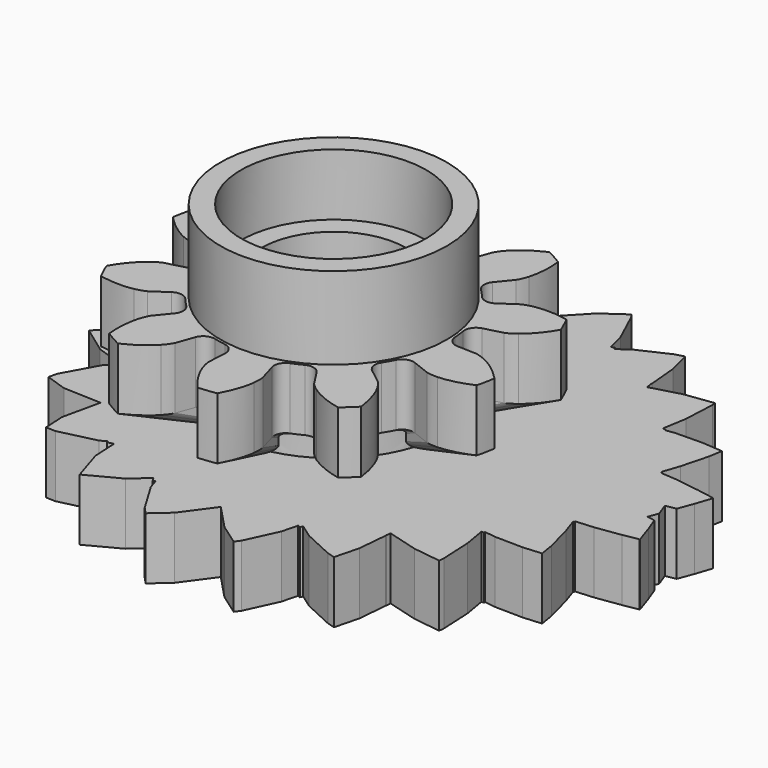
from build123d import *

# Parameters (mm, degrees)
CYLINDER004_R     = 4.5
CYLINDER004_DEPTH = 3
CYLINDER002_R     = 3.5
CYLINDER002_DEPTH = 20
CYLINDER005_R     = 4.5
CYLINDER005_DEPTH = 3
PAD006_DEPTH      = 3
CYLINDER003_R     = 5.5
CYLINDER003_DEPTH = 11


with BuildPart() as bearingcutouttop:
    # Cylinder004 → Cylinder004 (new body)
    with BuildSketch(Plane(origin=(-24, 0, 8), x_dir=(1, 0, 0), z_dir=(0, 0, 1))):
        Circle(CYLINDER004_R)
    extrude(amount=CYLINDER004_DEPTH)


with BuildPart() as axlecutout:
    # Cylinder002 → Cylinder002 (new body)
    with BuildSketch(Plane(origin=(-24, 0, 0), x_dir=(1, 0, 0), z_dir=(0, 0, 1))):
        Circle(CYLINDER002_R)
    extrude(amount=CYLINDER002_DEPTH)


with BuildPart() as cutouts:
    # Cylinder005 → Cylinder005 (new body)
    with BuildSketch(Plane(origin=(-24, 0, 0), x_dir=(1, 0, 0), z_dir=(0, 0, 1))):
        Circle(CYLINDER005_R)
    extrude(amount=CYLINDER005_DEPTH)

    # Fusion004: union bearingCutoutTop, axleCutout
    add(bearingcutouttop.part)
    add(axlecutout.part)


with BuildPart() as obj1:
    # DWire003 → Pad006 (new body)
    with BuildSketch(Plane(origin=(-24, 0, 0), x_dir=(1, 0, 0), z_dir=(0, 0, 1))):
        Polygon((16.709229, 2.145517), (16.719025, 2.128678), (16.709229, 2.145517), (16.719025, 2.128678), (16.454472, 1.339116), (16.178713, 0.599104), (15.672795, 0.509454), (15.90905, -0.124547), (15.72899, -0.607747), (16.114571, -0.676073), (16.372412, -1.368), (16.660814, -2.228735), (16.651934, -2.243999), (15.902679, -2.376769), (14.684639, -2.550888), (13.810397, -2.618315), (13.825047, -2.673766), (13.772887, -2.681223), (14.028811, -3.445025), (14.367357, -4.726446), (14.489469, -5.456559), (13.590703, -5.525878), (12.238962, -5.504786), (11.69954, -5.432727), (11.702633, -5.496417), (11.573708, -5.494405), (11.755242, -6.579813), (11.828978, -8.098227), (11.805547, -8.354548), (10.471663, -8.176364), (8.966212, -7.755699), (8.946384, -7.972611), (8.937364, -7.971406), (8.940532, -8.036641), (8.810529, -9.458816), (8.511551, -10.621115), (8.13881, -10.51696), (6.682311, -9.843522), (6.026342, -9.381631), (5.966049, -9.512346), (5.836308, -9.452358), (5.637853, -10.223869), (4.930072, -11.758328), (4.748432, -12.00666), (3.724972, -11.286005), (2.585394, -10.082104), (1.51204, -11.549547), (0.690381, -12.272584), (0.37927, -11.943913), (-0.511368, -10.459177), (-0.661072, -9.983461), (-0.764076, -10.037901), (-0.89147, -9.825529), (-1.687311, -10.525846), (-3.251611, -11.352606), (-3.748981, -9.772107), (-3.811595, -8.569617), (-4.105419, -8.639451), (-4.131165, -8.55764), (-4.43349, -8.717424), (-6.200371, -9.137363), (-6.66889, -9.120193), (-6.723256, -8.076111), (-6.318616, -6.249036), (-8.154589, -6.181752), (-9.179508, -5.838136), (-9.087919, -5.424585), (-8.182627, -3.786216), (-7.998521, -3.610371), (-8.060606, -3.565386), (-7.87793, -3.234786), (-9.067122, -2.836096), (-10.371242, -1.891172), (-8.937012, -0.5213), (-8.244697, -0.01967), (-8.328256, 0.06014), (-8.252357, 0.132632), (-8.881201, 0.588273), (-10.363581, 2.004134), (-9.107384, 2.914336), (-7.836855, 3.340295), (-8.032025, 3.693507), (-7.990861, 3.723334), (-8.11293, 3.839926), (-9.005714, 5.455657), (-9.115492, 5.951336), (-8.170327, 6.268214), (-6.249368, 6.338613), (-6.635781, 8.083385), (-6.577087, 9.210597), (-6.191751, 9.224718), (-4.402621, 8.799492), (-4.026439, 8.600673), (-3.994404, 8.70247), (-3.720966, 8.637482), (-3.662696, 9.756544), (-3.146886, 11.395639), (-1.637572, 10.597941), (-0.779596, 9.842947), (-0.642256, 10.071899), (-0.556347, 10.026495), (-0.43149, 10.423257), (0.448969, 11.891022), (0.815554, 12.278299), (1.576636, 11.608569), (2.509059, 10.333799), (2.512658, 10.325996), (2.51405, 10.326977), (2.69839, 10.074955), (3.782159, 11.219897), (4.87092, 11.986533), (5.005414, 11.80266), (5.720133, 10.253158), (5.938605, 9.403833), (6.08143, 9.469872), (6.135685, 9.352248), (6.725954, 9.767878), (8.168959, 10.435077), (8.617015, 10.560276), (8.896513, 9.473704), (9.027707, 8.0385), (9.020729, 7.894794), (9.040601, 7.897449), (9.059433, 7.69144), (10.48921, 8.09096), (11.899763, 8.279387), (11.916154, 8.100085), (11.841876, 6.570498), (11.647544, 5.408571), (11.785558, 5.410724), (11.782906, 5.356116), (12.245421, 5.417901), (13.588032, 5.438851), (14.562134, 5.363722), (14.452485, 4.708123), (14.112186, 3.420072), (13.832338, 2.584865), (13.889375, 2.576712), (13.875983, 2.526024), (14.675132, 2.464388), (15.888933, 2.290875), align=None)
    extrude(amount=PAD006_DEPTH)


with BuildPart() as topspacer:
    # Cylinder003 → Cylinder003 (new body)
    with BuildSketch(Plane(origin=(-24, 0, 0), x_dir=(1, 0, 0), z_dir=(0, 0, 1))):
        Circle(CYLINDER003_R)
    extrude(amount=CYLINDER003_DEPTH)


with BuildPart() as variable_gear_stack_short:
    # InvoluteGear008 → Loft001 section 0
    with BuildSketch(Plane(origin=(-24, 0, 3), x_dir=(0.909961, 0.414693, 0), z_dir=(0, 0, 1))):
        with BuildLine():
            Line((4.047316, -0.703019), (4.644656, -0.805895))
            add(Edge.make_bspline(
                [(4.644656, -0.805895), (4.684738, -0.809558), (4.804939, -0.814175), (5.008015, -0.767399)],
                knots=[0, 0, 0, 0, 1, 1, 1, 1], degree=3))
            add(Edge.make_bspline(
                [(5.008015, -0.767399), (5.249125, -0.710088), (5.590734, -0.580595), (5.994373, -0.293044)],
                knots=[0, 0, 0, 0, 1, 1, 1, 1], degree=3))
            ThreePointArc((5.994373, -0.293044), (6.001533, 0), (5.994373, 0.293044))
            add(Edge.make_bspline(
                [(5.994373, 0.293044), (5.590734, 0.580595), (5.249125, 0.710088), (5.008015, 0.767399)],
                knots=[0, 0, 0, 0, 1, 1, 1, 1], degree=3))
            add(Edge.make_bspline(
                [(5.008015, 0.767399), (4.804939, 0.814175), (4.684738, 0.809558), (4.644656, 0.805895)],
                knots=[0, 0, 0, 0, 1, 1, 1, 1], degree=3))
            Line((4.644656, 0.805895), (4.047316, 0.703019))
            ThreePointArc((4.047316, 0.703019), (3.782033, 0.75597), (3.621401, 0.97363))
            ThreePointArc((3.621401, 0.97363), (3.566462, 1.158814), (3.50206, 1.340923))
            ThreePointArc((3.50206, 1.340923), (3.504077, 1.611431), (3.687571, 1.810198))
            Line((3.687571, 1.810198), (4.231299, 2.078077))
            add(Edge.make_bspline(
                [(4.231299, 2.078077), (4.265879, 2.098674), (4.365837, 2.165591), (4.502635, 2.322799)],
                knots=[0, 0, 0, 0, 1, 1, 1, 1], degree=3))
            add(Edge.make_bspline(
                [(4.502635, 2.322799), (4.664011, 2.510885), (4.864264, 2.81644), (5.021796, 3.286326)],
                knots=[0, 0, 0, 0, 1, 1, 1, 1], degree=3))
            ThreePointArc((5.021796, 3.286326), (4.855342, 3.527613), (4.677303, 3.760481))
            add(Edge.make_bspline(
                [(4.677303, 3.760481), (4.181734, 3.755863), (3.829252, 3.659832), (3.600504, 3.564476)],
                knots=[0, 0, 0, 0, 1, 1, 1, 1], degree=3))
            add(Edge.make_bspline(
                [(3.600504, 3.564476), (3.408717, 3.482953), (3.314186, 3.408566), (3.283912, 3.382043)],
                knots=[0, 0, 0, 0, 1, 1, 1, 1], degree=3))
            Line((3.283912, 3.382043), (2.861123, 2.947707))
            ThreePointArc((2.861123, 2.947707), (2.615381, 2.834616), (2.357489, 2.916289))
            ThreePointArc((2.357489, 2.916289), (2.204195, 3.033814), (2.045052, 3.143289))
            ThreePointArc((2.045052, 3.143289), (1.887682, 3.36332), (1.9193, 3.631981))
            Line((1.9193, 3.631981), (2.201729, 4.168295))
            add(Edge.make_bspline(
                [(2.201729, 4.168295), (2.217599, 4.205283), (2.259134, 4.318175), (2.277402, 4.525766)],
                knots=[0, 0, 0, 0, 1, 1, 1, 1], degree=3))
            add(Edge.make_bspline(
                [(2.277402, 4.525766), (2.297403, 4.772785), (2.279811, 5.137691), (2.131064, 5.610432)],
                knots=[0, 0, 0, 0, 1, 1, 1, 1], degree=3))
            ThreePointArc((2.131064, 5.610432), (1.854576, 5.707797), (1.573662, 5.791543))
            add(Edge.make_bspline(
                [(1.573662, 5.791543), (1.175453, 5.496518), (0.946735, 5.211644), (0.817722, 5.000045)],
                knots=[0, 0, 0, 0, 1, 1, 1, 1], degree=3))
            add(Edge.make_bspline(
                [(0.817722, 5.000045), (0.710482, 4.821362), (0.677728, 4.705618), (0.668826, 4.666365)],
                knots=[0, 0, 0, 0, 1, 1, 1, 1], degree=3))
            Line((0.668826, 4.666365), (0.582079, 4.066471))
            ThreePointArc((0.582079, 4.066471), (0.449743, 3.830535), (0.193097, 3.745025))
            ThreePointArc((0.193097, 3.745025), (0, 3.75), (-0.193097, 3.745025))
            ThreePointArc((-0.193097, 3.745025), (-0.449743, 3.830535), (-0.582079, 4.066471))
            Line((-0.582079, 4.066471), (-0.668826, 4.666365))
            add(Edge.make_bspline(
                [(-0.668826, 4.666365), (-0.677728, 4.705618), (-0.710482, 4.821362), (-0.817722, 5.000045)],
                knots=[0, 0, 0, 0, 1, 1, 1, 1], degree=3))
            add(Edge.make_bspline(
                [(-0.817722, 5.000045), (-0.946735, 5.211644), (-1.175453, 5.496518), (-1.573662, 5.791543)],
                knots=[0, 0, 0, 0, 1, 1, 1, 1], degree=3))
            ThreePointArc((-1.573662, 5.791543), (-1.854576, 5.707797), (-2.131064, 5.610432))
            add(Edge.make_bspline(
                [(-2.131064, 5.610432), (-2.279811, 5.137691), (-2.297403, 4.772785), (-2.277402, 4.525766)],
                knots=[0, 0, 0, 0, 1, 1, 1, 1], degree=3))
            add(Edge.make_bspline(
                [(-2.277402, 4.525766), (-2.259134, 4.318175), (-2.217599, 4.205283), (-2.201729, 4.168295)],
                knots=[0, 0, 0, 0, 1, 1, 1, 1], degree=3))
            Line((-2.201729, 4.168295), (-1.9193, 3.631981))
            ThreePointArc((-1.9193, 3.631981), (-1.887682, 3.36332), (-2.045052, 3.143289))
            ThreePointArc((-2.045052, 3.143289), (-2.204195, 3.033814), (-2.357489, 2.916289))
            ThreePointArc((-2.357489, 2.916289), (-2.615381, 2.834616), (-2.861123, 2.947707))
            Line((-2.861123, 2.947707), (-3.283912, 3.382043))
            add(Edge.make_bspline(
                [(-3.283912, 3.382043), (-3.314186, 3.408566), (-3.408717, 3.482953), (-3.600504, 3.564476)],
                knots=[0, 0, 0, 0, 1, 1, 1, 1], degree=3))
            add(Edge.make_bspline(
                [(-3.600504, 3.564476), (-3.829252, 3.659832), (-4.181734, 3.755863), (-4.677303, 3.760481)],
                knots=[0, 0, 0, 0, 1, 1, 1, 1], degree=3))
            ThreePointArc((-4.677303, 3.760481), (-4.855342, 3.527613), (-5.021796, 3.286326))
            add(Edge.make_bspline(
                [(-5.021796, 3.286326), (-4.864264, 2.81644), (-4.664011, 2.510885), (-4.502635, 2.322799)],
                knots=[0, 0, 0, 0, 1, 1, 1, 1], degree=3))
            add(Edge.make_bspline(
                [(-4.502635, 2.322799), (-4.365837, 2.165591), (-4.265879, 2.098674), (-4.231299, 2.078077)],
                knots=[0, 0, 0, 0, 1, 1, 1, 1], degree=3))
            Line((-4.231299, 2.078077), (-3.687571, 1.810198))
            ThreePointArc((-3.687571, 1.810198), (-3.504077, 1.611431), (-3.50206, 1.340923))
            ThreePointArc((-3.50206, 1.340923), (-3.566462, 1.158814), (-3.621401, 0.97363))
            ThreePointArc((-3.621401, 0.97363), (-3.782033, 0.75597), (-4.047316, 0.703019))
            Line((-4.047316, 0.703019), (-4.644656, 0.805895))
            add(Edge.make_bspline(
                [(-4.644656, 0.805895), (-4.684738, 0.809558), (-4.804939, 0.814175), (-5.008015, 0.767399)],
                knots=[0, 0, 0, 0, 1, 1, 1, 1], degree=3))
            add(Edge.make_bspline(
                [(-5.008015, 0.767399), (-5.249125, 0.710088), (-5.590734, 0.580595), (-5.994373, 0.293044)],
                knots=[0, 0, 0, 0, 1, 1, 1, 1], degree=3))
            ThreePointArc((-5.994373, 0.293044), (-6.001533, 0), (-5.994373, -0.293044))
            add(Edge.make_bspline(
                [(-5.994373, -0.293044), (-5.590734, -0.580595), (-5.249125, -0.710088), (-5.008015, -0.767399)],
                knots=[0, 0, 0, 0, 1, 1, 1, 1], degree=3))
            add(Edge.make_bspline(
                [(-5.008015, -0.767399), (-4.804939, -0.814175), (-4.684738, -0.809558), (-4.644656, -0.805895)],
                knots=[0, 0, 0, 0, 1, 1, 1, 1], degree=3))
            Line((-4.644656, -0.805895), (-4.047316, -0.703019))
            ThreePointArc((-4.047316, -0.703019), (-3.782033, -0.75597), (-3.621401, -0.97363))
            ThreePointArc((-3.621401, -0.97363), (-3.566462, -1.158814), (-3.50206, -1.340923))
            ThreePointArc((-3.50206, -1.340923), (-3.504077, -1.611431), (-3.687571, -1.810198))
            Line((-3.687571, -1.810198), (-4.231299, -2.078077))
            add(Edge.make_bspline(
                [(-4.231299, -2.078077), (-4.265879, -2.098674), (-4.365837, -2.165591), (-4.502635, -2.322799)],
                knots=[0, 0, 0, 0, 1, 1, 1, 1], degree=3))
            add(Edge.make_bspline(
                [(-4.502635, -2.322799), (-4.664011, -2.510885), (-4.864264, -2.81644), (-5.021796, -3.286326)],
                knots=[0, 0, 0, 0, 1, 1, 1, 1], degree=3))
            ThreePointArc((-5.021796, -3.286326), (-4.855342, -3.527613), (-4.677303, -3.760481))
            add(Edge.make_bspline(
                [(-4.677303, -3.760481), (-4.181734, -3.755863), (-3.829252, -3.659832), (-3.600504, -3.564476)],
                knots=[0, 0, 0, 0, 1, 1, 1, 1], degree=3))
            add(Edge.make_bspline(
                [(-3.600504, -3.564476), (-3.408717, -3.482953), (-3.314186, -3.408566), (-3.283912, -3.382043)],
                knots=[0, 0, 0, 0, 1, 1, 1, 1], degree=3))
            Line((-3.283912, -3.382043), (-2.861123, -2.947707))
            ThreePointArc((-2.861123, -2.947707), (-2.615381, -2.834616), (-2.357489, -2.916289))
            ThreePointArc((-2.357489, -2.916289), (-2.204195, -3.033814), (-2.045052, -3.143289))
            ThreePointArc((-2.045052, -3.143289), (-1.887682, -3.36332), (-1.9193, -3.631981))
            Line((-1.9193, -3.631981), (-2.201729, -4.168295))
            add(Edge.make_bspline(
                [(-2.201729, -4.168295), (-2.217599, -4.205283), (-2.259134, -4.318175), (-2.277402, -4.525766)],
                knots=[0, 0, 0, 0, 1, 1, 1, 1], degree=3))
            add(Edge.make_bspline(
                [(-2.277402, -4.525766), (-2.297403, -4.772785), (-2.279811, -5.137691), (-2.131064, -5.610432)],
                knots=[0, 0, 0, 0, 1, 1, 1, 1], degree=3))
            ThreePointArc((-2.131064, -5.610432), (-1.854576, -5.707797), (-1.573662, -5.791543))
            add(Edge.make_bspline(
                [(-1.573662, -5.791543), (-1.175453, -5.496518), (-0.946735, -5.211644), (-0.817722, -5.000045)],
                knots=[0, 0, 0, 0, 1, 1, 1, 1], degree=3))
            add(Edge.make_bspline(
                [(-0.817722, -5.000045), (-0.710482, -4.821362), (-0.677728, -4.705618), (-0.668826, -4.666365)],
                knots=[0, 0, 0, 0, 1, 1, 1, 1], degree=3))
            Line((-0.668826, -4.666365), (-0.582079, -4.066471))
            ThreePointArc((-0.582079, -4.066471), (-0.449743, -3.830535), (-0.193097, -3.745025))
            ThreePointArc((-0.193097, -3.745025), (0, -3.75), (0.193097, -3.745025))
            ThreePointArc((0.193097, -3.745025), (0.449743, -3.830535), (0.582079, -4.066471))
            Line((0.582079, -4.066471), (0.668826, -4.666365))
            add(Edge.make_bspline(
                [(0.668826, -4.666365), (0.677728, -4.705618), (0.710482, -4.821362), (0.817722, -5.000045)],
                knots=[0, 0, 0, 0, 1, 1, 1, 1], degree=3))
            add(Edge.make_bspline(
                [(0.817722, -5.000045), (0.946735, -5.211644), (1.175453, -5.496518), (1.573662, -5.791543)],
                knots=[0, 0, 0, 0, 1, 1, 1, 1], degree=3))
            ThreePointArc((1.573662, -5.791543), (1.854576, -5.707797), (2.131064, -5.610432))
            add(Edge.make_bspline(
                [(2.131064, -5.610432), (2.279811, -5.137691), (2.297403, -4.772785), (2.277402, -4.525766)],
                knots=[0, 0, 0, 0, 1, 1, 1, 1], degree=3))
            add(Edge.make_bspline(
                [(2.277402, -4.525766), (2.259134, -4.318175), (2.217599, -4.205283), (2.201729, -4.168295)],
                knots=[0, 0, 0, 0, 1, 1, 1, 1], degree=3))
            Line((2.201729, -4.168295), (1.9193, -3.631981))
            ThreePointArc((1.9193, -3.631981), (1.887682, -3.36332), (2.045052, -3.143289))
            ThreePointArc((2.045052, -3.143289), (2.204195, -3.033814), (2.357489, -2.916289))
            ThreePointArc((2.357489, -2.916289), (2.615381, -2.834616), (2.861123, -2.947707))
            Line((2.861123, -2.947707), (3.283912, -3.382043))
            add(Edge.make_bspline(
                [(3.283912, -3.382043), (3.314186, -3.408566), (3.408717, -3.482953), (3.600504, -3.564476)],
                knots=[0, 0, 0, 0, 1, 1, 1, 1], degree=3))
            add(Edge.make_bspline(
                [(3.600504, -3.564476), (3.829252, -3.659832), (4.181734, -3.755863), (4.677303, -3.760481)],
                knots=[0, 0, 0, 0, 1, 1, 1, 1], degree=3))
            ThreePointArc((4.677303, -3.760481), (4.855342, -3.527613), (5.021796, -3.286326))
            add(Edge.make_bspline(
                [(5.021796, -3.286326), (4.864264, -2.81644), (4.664011, -2.510885), (4.502635, -2.322799)],
                knots=[0, 0, 0, 0, 1, 1, 1, 1], degree=3))
            add(Edge.make_bspline(
                [(4.502635, -2.322799), (4.365837, -2.165591), (4.265879, -2.098674), (4.231299, -2.078077)],
                knots=[0, 0, 0, 0, 1, 1, 1, 1], degree=3))
            Line((4.231299, -2.078077), (3.687571, -1.810198))
            ThreePointArc((3.687571, -1.810198), (3.504077, -1.611431), (3.50206, -1.340923))
            ThreePointArc((3.50206, -1.340923), (3.566462, -1.158814), (3.621401, -0.97363))
            ThreePointArc((3.621401, -0.97363), (3.782033, -0.75597), (4.047316, -0.703019))
        make_face()
    # InvoluteGear007 → Loft001 section 1
    with BuildSketch(Plane(origin=(-24, 0, 4), x_dir=(0.909961, 0.414693, 0), z_dir=(0, 0, 1))):
        with BuildLine():
            Line((6.070974, -1.054528), (6.966984, -1.208843))
            add(Edge.make_bspline(
                [(6.966984, -1.208843), (7.027107, -1.214337), (7.207408, -1.221262), (7.512023, -1.151099)],
                knots=[0, 0, 0, 0, 1, 1, 1, 1], degree=3))
            add(Edge.make_bspline(
                [(7.512023, -1.151099), (7.873688, -1.065133), (8.386102, -0.870893), (8.991559, -0.439566)],
                knots=[0, 0, 0, 0, 1, 1, 1, 1], degree=3))
            ThreePointArc((8.991559, -0.439566), (9.0023, 0), (8.991559, 0.439566))
            add(Edge.make_bspline(
                [(8.991559, 0.439566), (8.386102, 0.870893), (7.873688, 1.065133), (7.512023, 1.151099)],
                knots=[0, 0, 0, 0, 1, 1, 1, 1], degree=3))
            add(Edge.make_bspline(
                [(7.512023, 1.151099), (7.207408, 1.221262), (7.027107, 1.214337), (6.966984, 1.208843)],
                knots=[0, 0, 0, 0, 1, 1, 1, 1], degree=3))
            Line((6.966984, 1.208843), (6.070974, 1.054528))
            ThreePointArc((6.070974, 1.054528), (5.67305, 1.133955), (5.432101, 1.460445))
            ThreePointArc((5.432101, 1.460445), (5.349693, 1.738221), (5.25309, 2.011384))
            ThreePointArc((5.25309, 2.011384), (5.256115, 2.417146), (5.531357, 2.715298))
            Line((5.531357, 2.715298), (6.346948, 3.117116))
            add(Edge.make_bspline(
                [(6.346948, 3.117116), (6.398818, 3.148011), (6.548756, 3.248387), (6.753953, 3.484198)],
                knots=[0, 0, 0, 0, 1, 1, 1, 1], degree=3))
            add(Edge.make_bspline(
                [(6.753953, 3.484198), (6.996017, 3.766327), (7.296397, 4.22466), (7.532695, 4.92949)],
                knots=[0, 0, 0, 0, 1, 1, 1, 1], degree=3))
            ThreePointArc((7.532695, 4.92949), (7.283014, 5.291419), (7.015954, 5.640722))
            add(Edge.make_bspline(
                [(7.015954, 5.640722), (6.272601, 5.633794), (5.743878, 5.489748), (5.400755, 5.346715)],
                knots=[0, 0, 0, 0, 1, 1, 1, 1], degree=3))
            add(Edge.make_bspline(
                [(5.400755, 5.346715), (5.113076, 5.22443), (4.97128, 5.112849), (4.925868, 5.073064)],
                knots=[0, 0, 0, 0, 1, 1, 1, 1], degree=3))
            Line((4.925868, 5.073064), (4.291685, 4.42156))
            ThreePointArc((4.291685, 4.42156), (3.923072, 4.251923), (3.536234, 4.374434))
            ThreePointArc((3.536234, 4.374434), (3.306292, 4.550721), (3.067578, 4.714933))
            ThreePointArc((3.067578, 4.714933), (2.831524, 5.04498), (2.87895, 5.447972))
            Line((2.87895, 5.447972), (3.302594, 6.252442))
            add(Edge.make_bspline(
                [(3.302594, 6.252442), (3.326399, 6.307925), (3.388701, 6.477262), (3.416103, 6.788649)],
                knots=[0, 0, 0, 0, 1, 1, 1, 1], degree=3))
            add(Edge.make_bspline(
                [(3.416103, 6.788649), (3.446105, 7.159178), (3.419716, 7.706536), (3.196597, 8.415648)],
                knots=[0, 0, 0, 0, 1, 1, 1, 1], degree=3))
            ThreePointArc((3.196597, 8.415648), (2.781864, 8.561696), (2.360492, 8.687314))
            add(Edge.make_bspline(
                [(2.360492, 8.687314), (1.76318, 8.244777), (1.420102, 7.817466), (1.226583, 7.500067)],
                knots=[0, 0, 0, 0, 1, 1, 1, 1], degree=3))
            add(Edge.make_bspline(
                [(1.226583, 7.500067), (1.065722, 7.232044), (1.016592, 7.058427), (1.003239, 6.999548)],
                knots=[0, 0, 0, 0, 1, 1, 1, 1], degree=3))
            Line((1.003239, 6.999548), (0.873118, 6.099706))
            ThreePointArc((0.873118, 6.099706), (0.674614, 5.745802), (0.289646, 5.617538))
            ThreePointArc((0.289646, 5.617538), (0, 5.625), (-0.289646, 5.617538))
            ThreePointArc((-0.289646, 5.617538), (-0.674614, 5.745802), (-0.873118, 6.099706))
            Line((-0.873118, 6.099706), (-1.003239, 6.999548))
            add(Edge.make_bspline(
                [(-1.003239, 6.999548), (-1.016592, 7.058427), (-1.065722, 7.232044), (-1.226583, 7.500067)],
                knots=[0, 0, 0, 0, 1, 1, 1, 1], degree=3))
            add(Edge.make_bspline(
                [(-1.226583, 7.500067), (-1.420102, 7.817466), (-1.76318, 8.244777), (-2.360492, 8.687314)],
                knots=[0, 0, 0, 0, 1, 1, 1, 1], degree=3))
            ThreePointArc((-2.360492, 8.687314), (-2.781864, 8.561696), (-3.196597, 8.415648))
            add(Edge.make_bspline(
                [(-3.196597, 8.415648), (-3.419716, 7.706536), (-3.446105, 7.159178), (-3.416103, 6.788649)],
                knots=[0, 0, 0, 0, 1, 1, 1, 1], degree=3))
            add(Edge.make_bspline(
                [(-3.416103, 6.788649), (-3.388701, 6.477262), (-3.326399, 6.307925), (-3.302594, 6.252442)],
                knots=[0, 0, 0, 0, 1, 1, 1, 1], degree=3))
            Line((-3.302594, 6.252442), (-2.87895, 5.447972))
            ThreePointArc((-2.87895, 5.447972), (-2.831524, 5.04498), (-3.067578, 4.714933))
            ThreePointArc((-3.067578, 4.714933), (-3.306292, 4.550721), (-3.536234, 4.374434))
            ThreePointArc((-3.536234, 4.374434), (-3.923072, 4.251923), (-4.291685, 4.42156))
            Line((-4.291685, 4.42156), (-4.925868, 5.073064))
            add(Edge.make_bspline(
                [(-4.925868, 5.073064), (-4.97128, 5.112849), (-5.113076, 5.22443), (-5.400755, 5.346715)],
                knots=[0, 0, 0, 0, 1, 1, 1, 1], degree=3))
            add(Edge.make_bspline(
                [(-5.400755, 5.346715), (-5.743878, 5.489748), (-6.272601, 5.633794), (-7.015954, 5.640722)],
                knots=[0, 0, 0, 0, 1, 1, 1, 1], degree=3))
            ThreePointArc((-7.015954, 5.640722), (-7.283014, 5.291419), (-7.532695, 4.92949))
            add(Edge.make_bspline(
                [(-7.532695, 4.92949), (-7.296397, 4.22466), (-6.996017, 3.766327), (-6.753953, 3.484198)],
                knots=[0, 0, 0, 0, 1, 1, 1, 1], degree=3))
            add(Edge.make_bspline(
                [(-6.753953, 3.484198), (-6.548756, 3.248387), (-6.398818, 3.148011), (-6.346948, 3.117116)],
                knots=[0, 0, 0, 0, 1, 1, 1, 1], degree=3))
            Line((-6.346948, 3.117116), (-5.531357, 2.715298))
            ThreePointArc((-5.531357, 2.715298), (-5.256115, 2.417146), (-5.25309, 2.011384))
            ThreePointArc((-5.25309, 2.011384), (-5.349693, 1.738221), (-5.432101, 1.460445))
            ThreePointArc((-5.432101, 1.460445), (-5.67305, 1.133955), (-6.070974, 1.054528))
            Line((-6.070974, 1.054528), (-6.966984, 1.208843))
            add(Edge.make_bspline(
                [(-6.966984, 1.208843), (-7.027107, 1.214337), (-7.207408, 1.221262), (-7.512023, 1.151099)],
                knots=[0, 0, 0, 0, 1, 1, 1, 1], degree=3))
            add(Edge.make_bspline(
                [(-7.512023, 1.151099), (-7.873688, 1.065133), (-8.386102, 0.870893), (-8.991559, 0.439566)],
                knots=[0, 0, 0, 0, 1, 1, 1, 1], degree=3))
            ThreePointArc((-8.991559, 0.439566), (-9.0023, 0), (-8.991559, -0.439566))
            add(Edge.make_bspline(
                [(-8.991559, -0.439566), (-8.386102, -0.870893), (-7.873688, -1.065133), (-7.512023, -1.151099)],
                knots=[0, 0, 0, 0, 1, 1, 1, 1], degree=3))
            add(Edge.make_bspline(
                [(-7.512023, -1.151099), (-7.207408, -1.221262), (-7.027107, -1.214337), (-6.966984, -1.208843)],
                knots=[0, 0, 0, 0, 1, 1, 1, 1], degree=3))
            Line((-6.966984, -1.208843), (-6.070974, -1.054528))
            ThreePointArc((-6.070974, -1.054528), (-5.67305, -1.133955), (-5.432101, -1.460445))
            ThreePointArc((-5.432101, -1.460445), (-5.349693, -1.738221), (-5.25309, -2.011384))
            ThreePointArc((-5.25309, -2.011384), (-5.256115, -2.417146), (-5.531357, -2.715298))
            Line((-5.531357, -2.715298), (-6.346948, -3.117116))
            add(Edge.make_bspline(
                [(-6.346948, -3.117116), (-6.398818, -3.148011), (-6.548756, -3.248387), (-6.753953, -3.484198)],
                knots=[0, 0, 0, 0, 1, 1, 1, 1], degree=3))
            add(Edge.make_bspline(
                [(-6.753953, -3.484198), (-6.996017, -3.766327), (-7.296397, -4.22466), (-7.532695, -4.92949)],
                knots=[0, 0, 0, 0, 1, 1, 1, 1], degree=3))
            ThreePointArc((-7.532695, -4.92949), (-7.283014, -5.291419), (-7.015954, -5.640722))
            add(Edge.make_bspline(
                [(-7.015954, -5.640722), (-6.272601, -5.633794), (-5.743878, -5.489748), (-5.400755, -5.346715)],
                knots=[0, 0, 0, 0, 1, 1, 1, 1], degree=3))
            add(Edge.make_bspline(
                [(-5.400755, -5.346715), (-5.113076, -5.22443), (-4.97128, -5.112849), (-4.925868, -5.073064)],
                knots=[0, 0, 0, 0, 1, 1, 1, 1], degree=3))
            Line((-4.925868, -5.073064), (-4.291685, -4.42156))
            ThreePointArc((-4.291685, -4.42156), (-3.923072, -4.251923), (-3.536234, -4.374434))
            ThreePointArc((-3.536234, -4.374434), (-3.306292, -4.550721), (-3.067578, -4.714933))
            ThreePointArc((-3.067578, -4.714933), (-2.831524, -5.04498), (-2.87895, -5.447972))
            Line((-2.87895, -5.447972), (-3.302594, -6.252442))
            add(Edge.make_bspline(
                [(-3.302594, -6.252442), (-3.326399, -6.307925), (-3.388701, -6.477262), (-3.416103, -6.788649)],
                knots=[0, 0, 0, 0, 1, 1, 1, 1], degree=3))
            add(Edge.make_bspline(
                [(-3.416103, -6.788649), (-3.446105, -7.159178), (-3.419716, -7.706536), (-3.196597, -8.415648)],
                knots=[0, 0, 0, 0, 1, 1, 1, 1], degree=3))
            ThreePointArc((-3.196597, -8.415648), (-2.781864, -8.561696), (-2.360492, -8.687314))
            add(Edge.make_bspline(
                [(-2.360492, -8.687314), (-1.76318, -8.244777), (-1.420102, -7.817466), (-1.226583, -7.500067)],
                knots=[0, 0, 0, 0, 1, 1, 1, 1], degree=3))
            add(Edge.make_bspline(
                [(-1.226583, -7.500067), (-1.065722, -7.232044), (-1.016592, -7.058427), (-1.003239, -6.999548)],
                knots=[0, 0, 0, 0, 1, 1, 1, 1], degree=3))
            Line((-1.003239, -6.999548), (-0.873118, -6.099706))
            ThreePointArc((-0.873118, -6.099706), (-0.674614, -5.745802), (-0.289646, -5.617538))
            ThreePointArc((-0.289646, -5.617538), (0, -5.625), (0.289646, -5.617538))
            ThreePointArc((0.289646, -5.617538), (0.674614, -5.745802), (0.873118, -6.099706))
            Line((0.873118, -6.099706), (1.003239, -6.999548))
            add(Edge.make_bspline(
                [(1.003239, -6.999548), (1.016592, -7.058427), (1.065722, -7.232044), (1.226583, -7.500067)],
                knots=[0, 0, 0, 0, 1, 1, 1, 1], degree=3))
            add(Edge.make_bspline(
                [(1.226583, -7.500067), (1.420102, -7.817466), (1.76318, -8.244777), (2.360492, -8.687314)],
                knots=[0, 0, 0, 0, 1, 1, 1, 1], degree=3))
            ThreePointArc((2.360492, -8.687314), (2.781864, -8.561696), (3.196597, -8.415648))
            add(Edge.make_bspline(
                [(3.196597, -8.415648), (3.419716, -7.706536), (3.446105, -7.159178), (3.416103, -6.788649)],
                knots=[0, 0, 0, 0, 1, 1, 1, 1], degree=3))
            add(Edge.make_bspline(
                [(3.416103, -6.788649), (3.388701, -6.477262), (3.326399, -6.307925), (3.302594, -6.252442)],
                knots=[0, 0, 0, 0, 1, 1, 1, 1], degree=3))
            Line((3.302594, -6.252442), (2.87895, -5.447972))
            ThreePointArc((2.87895, -5.447972), (2.831524, -5.04498), (3.067578, -4.714933))
            ThreePointArc((3.067578, -4.714933), (3.306292, -4.550721), (3.536234, -4.374434))
            ThreePointArc((3.536234, -4.374434), (3.923072, -4.251923), (4.291685, -4.42156))
            Line((4.291685, -4.42156), (4.925868, -5.073064))
            add(Edge.make_bspline(
                [(4.925868, -5.073064), (4.97128, -5.112849), (5.113076, -5.22443), (5.400755, -5.346715)],
                knots=[0, 0, 0, 0, 1, 1, 1, 1], degree=3))
            add(Edge.make_bspline(
                [(5.400755, -5.346715), (5.743878, -5.489748), (6.272601, -5.633794), (7.015954, -5.640722)],
                knots=[0, 0, 0, 0, 1, 1, 1, 1], degree=3))
            ThreePointArc((7.015954, -5.640722), (7.283014, -5.291419), (7.532695, -4.92949))
            add(Edge.make_bspline(
                [(7.532695, -4.92949), (7.296397, -4.22466), (6.996017, -3.766327), (6.753953, -3.484198)],
                knots=[0, 0, 0, 0, 1, 1, 1, 1], degree=3))
            add(Edge.make_bspline(
                [(6.753953, -3.484198), (6.548756, -3.248387), (6.398818, -3.148011), (6.346948, -3.117116)],
                knots=[0, 0, 0, 0, 1, 1, 1, 1], degree=3))
            Line((6.346948, -3.117116), (5.531357, -2.715298))
            ThreePointArc((5.531357, -2.715298), (5.256115, -2.417146), (5.25309, -2.011384))
            ThreePointArc((5.25309, -2.011384), (5.349693, -1.738221), (5.432101, -1.460445))
            ThreePointArc((5.432101, -1.460445), (5.67305, -1.133955), (6.070974, -1.054528))
        make_face()
    # InvoluteGear006 → Loft001 section 2
    with BuildSketch(Plane(origin=(-24, 0, 7), x_dir=(0.909961, 0.414693, 0), z_dir=(0, 0, 1))):
        with BuildLine():
            Line((6.070974, -1.054528), (6.966984, -1.208843))
            add(Edge.make_bspline(
                [(6.966984, -1.208843), (7.027107, -1.214337), (7.207408, -1.221262), (7.512023, -1.151099)],
                knots=[0, 0, 0, 0, 1, 1, 1, 1], degree=3))
            add(Edge.make_bspline(
                [(7.512023, -1.151099), (7.873688, -1.065133), (8.386102, -0.870893), (8.991559, -0.439566)],
                knots=[0, 0, 0, 0, 1, 1, 1, 1], degree=3))
            ThreePointArc((8.991559, -0.439566), (9.0023, 0), (8.991559, 0.439566))
            add(Edge.make_bspline(
                [(8.991559, 0.439566), (8.386102, 0.870893), (7.873688, 1.065133), (7.512023, 1.151099)],
                knots=[0, 0, 0, 0, 1, 1, 1, 1], degree=3))
            add(Edge.make_bspline(
                [(7.512023, 1.151099), (7.207408, 1.221262), (7.027107, 1.214337), (6.966984, 1.208843)],
                knots=[0, 0, 0, 0, 1, 1, 1, 1], degree=3))
            Line((6.966984, 1.208843), (6.070974, 1.054528))
            ThreePointArc((6.070974, 1.054528), (5.67305, 1.133955), (5.432101, 1.460445))
            ThreePointArc((5.432101, 1.460445), (5.349693, 1.738221), (5.25309, 2.011384))
            ThreePointArc((5.25309, 2.011384), (5.256115, 2.417146), (5.531357, 2.715298))
            Line((5.531357, 2.715298), (6.346948, 3.117116))
            add(Edge.make_bspline(
                [(6.346948, 3.117116), (6.398818, 3.148011), (6.548756, 3.248387), (6.753953, 3.484198)],
                knots=[0, 0, 0, 0, 1, 1, 1, 1], degree=3))
            add(Edge.make_bspline(
                [(6.753953, 3.484198), (6.996017, 3.766327), (7.296397, 4.22466), (7.532695, 4.92949)],
                knots=[0, 0, 0, 0, 1, 1, 1, 1], degree=3))
            ThreePointArc((7.532695, 4.92949), (7.283014, 5.291419), (7.015954, 5.640722))
            add(Edge.make_bspline(
                [(7.015954, 5.640722), (6.272601, 5.633794), (5.743878, 5.489748), (5.400755, 5.346715)],
                knots=[0, 0, 0, 0, 1, 1, 1, 1], degree=3))
            add(Edge.make_bspline(
                [(5.400755, 5.346715), (5.113076, 5.22443), (4.97128, 5.112849), (4.925868, 5.073064)],
                knots=[0, 0, 0, 0, 1, 1, 1, 1], degree=3))
            Line((4.925868, 5.073064), (4.291685, 4.42156))
            ThreePointArc((4.291685, 4.42156), (3.923072, 4.251923), (3.536234, 4.374434))
            ThreePointArc((3.536234, 4.374434), (3.306292, 4.550721), (3.067578, 4.714933))
            ThreePointArc((3.067578, 4.714933), (2.831524, 5.04498), (2.87895, 5.447972))
            Line((2.87895, 5.447972), (3.302594, 6.252442))
            add(Edge.make_bspline(
                [(3.302594, 6.252442), (3.326399, 6.307925), (3.388701, 6.477262), (3.416103, 6.788649)],
                knots=[0, 0, 0, 0, 1, 1, 1, 1], degree=3))
            add(Edge.make_bspline(
                [(3.416103, 6.788649), (3.446105, 7.159178), (3.419716, 7.706536), (3.196597, 8.415648)],
                knots=[0, 0, 0, 0, 1, 1, 1, 1], degree=3))
            ThreePointArc((3.196597, 8.415648), (2.781864, 8.561696), (2.360492, 8.687314))
            add(Edge.make_bspline(
                [(2.360492, 8.687314), (1.76318, 8.244777), (1.420102, 7.817466), (1.226583, 7.500067)],
                knots=[0, 0, 0, 0, 1, 1, 1, 1], degree=3))
            add(Edge.make_bspline(
                [(1.226583, 7.500067), (1.065722, 7.232044), (1.016592, 7.058427), (1.003239, 6.999548)],
                knots=[0, 0, 0, 0, 1, 1, 1, 1], degree=3))
            Line((1.003239, 6.999548), (0.873118, 6.099706))
            ThreePointArc((0.873118, 6.099706), (0.674614, 5.745802), (0.289646, 5.617538))
            ThreePointArc((0.289646, 5.617538), (0, 5.625), (-0.289646, 5.617538))
            ThreePointArc((-0.289646, 5.617538), (-0.674614, 5.745802), (-0.873118, 6.099706))
            Line((-0.873118, 6.099706), (-1.003239, 6.999548))
            add(Edge.make_bspline(
                [(-1.003239, 6.999548), (-1.016592, 7.058427), (-1.065722, 7.232044), (-1.226583, 7.500067)],
                knots=[0, 0, 0, 0, 1, 1, 1, 1], degree=3))
            add(Edge.make_bspline(
                [(-1.226583, 7.500067), (-1.420102, 7.817466), (-1.76318, 8.244777), (-2.360492, 8.687314)],
                knots=[0, 0, 0, 0, 1, 1, 1, 1], degree=3))
            ThreePointArc((-2.360492, 8.687314), (-2.781864, 8.561696), (-3.196597, 8.415648))
            add(Edge.make_bspline(
                [(-3.196597, 8.415648), (-3.419716, 7.706536), (-3.446105, 7.159178), (-3.416103, 6.788649)],
                knots=[0, 0, 0, 0, 1, 1, 1, 1], degree=3))
            add(Edge.make_bspline(
                [(-3.416103, 6.788649), (-3.388701, 6.477262), (-3.326399, 6.307925), (-3.302594, 6.252442)],
                knots=[0, 0, 0, 0, 1, 1, 1, 1], degree=3))
            Line((-3.302594, 6.252442), (-2.87895, 5.447972))
            ThreePointArc((-2.87895, 5.447972), (-2.831524, 5.04498), (-3.067578, 4.714933))
            ThreePointArc((-3.067578, 4.714933), (-3.306292, 4.550721), (-3.536234, 4.374434))
            ThreePointArc((-3.536234, 4.374434), (-3.923072, 4.251923), (-4.291685, 4.42156))
            Line((-4.291685, 4.42156), (-4.925868, 5.073064))
            add(Edge.make_bspline(
                [(-4.925868, 5.073064), (-4.97128, 5.112849), (-5.113076, 5.22443), (-5.400755, 5.346715)],
                knots=[0, 0, 0, 0, 1, 1, 1, 1], degree=3))
            add(Edge.make_bspline(
                [(-5.400755, 5.346715), (-5.743878, 5.489748), (-6.272601, 5.633794), (-7.015954, 5.640722)],
                knots=[0, 0, 0, 0, 1, 1, 1, 1], degree=3))
            ThreePointArc((-7.015954, 5.640722), (-7.283014, 5.291419), (-7.532695, 4.92949))
            add(Edge.make_bspline(
                [(-7.532695, 4.92949), (-7.296397, 4.22466), (-6.996017, 3.766327), (-6.753953, 3.484198)],
                knots=[0, 0, 0, 0, 1, 1, 1, 1], degree=3))
            add(Edge.make_bspline(
                [(-6.753953, 3.484198), (-6.548756, 3.248387), (-6.398818, 3.148011), (-6.346948, 3.117116)],
                knots=[0, 0, 0, 0, 1, 1, 1, 1], degree=3))
            Line((-6.346948, 3.117116), (-5.531357, 2.715298))
            ThreePointArc((-5.531357, 2.715298), (-5.256115, 2.417146), (-5.25309, 2.011384))
            ThreePointArc((-5.25309, 2.011384), (-5.349693, 1.738221), (-5.432101, 1.460445))
            ThreePointArc((-5.432101, 1.460445), (-5.67305, 1.133955), (-6.070974, 1.054528))
            Line((-6.070974, 1.054528), (-6.966984, 1.208843))
            add(Edge.make_bspline(
                [(-6.966984, 1.208843), (-7.027107, 1.214337), (-7.207408, 1.221262), (-7.512023, 1.151099)],
                knots=[0, 0, 0, 0, 1, 1, 1, 1], degree=3))
            add(Edge.make_bspline(
                [(-7.512023, 1.151099), (-7.873688, 1.065133), (-8.386102, 0.870893), (-8.991559, 0.439566)],
                knots=[0, 0, 0, 0, 1, 1, 1, 1], degree=3))
            ThreePointArc((-8.991559, 0.439566), (-9.0023, 0), (-8.991559, -0.439566))
            add(Edge.make_bspline(
                [(-8.991559, -0.439566), (-8.386102, -0.870893), (-7.873688, -1.065133), (-7.512023, -1.151099)],
                knots=[0, 0, 0, 0, 1, 1, 1, 1], degree=3))
            add(Edge.make_bspline(
                [(-7.512023, -1.151099), (-7.207408, -1.221262), (-7.027107, -1.214337), (-6.966984, -1.208843)],
                knots=[0, 0, 0, 0, 1, 1, 1, 1], degree=3))
            Line((-6.966984, -1.208843), (-6.070974, -1.054528))
            ThreePointArc((-6.070974, -1.054528), (-5.67305, -1.133955), (-5.432101, -1.460445))
            ThreePointArc((-5.432101, -1.460445), (-5.349693, -1.738221), (-5.25309, -2.011384))
            ThreePointArc((-5.25309, -2.011384), (-5.256115, -2.417146), (-5.531357, -2.715298))
            Line((-5.531357, -2.715298), (-6.346948, -3.117116))
            add(Edge.make_bspline(
                [(-6.346948, -3.117116), (-6.398818, -3.148011), (-6.548756, -3.248387), (-6.753953, -3.484198)],
                knots=[0, 0, 0, 0, 1, 1, 1, 1], degree=3))
            add(Edge.make_bspline(
                [(-6.753953, -3.484198), (-6.996017, -3.766327), (-7.296397, -4.22466), (-7.532695, -4.92949)],
                knots=[0, 0, 0, 0, 1, 1, 1, 1], degree=3))
            ThreePointArc((-7.532695, -4.92949), (-7.283014, -5.291419), (-7.015954, -5.640722))
            add(Edge.make_bspline(
                [(-7.015954, -5.640722), (-6.272601, -5.633794), (-5.743878, -5.489748), (-5.400755, -5.346715)],
                knots=[0, 0, 0, 0, 1, 1, 1, 1], degree=3))
            add(Edge.make_bspline(
                [(-5.400755, -5.346715), (-5.113076, -5.22443), (-4.97128, -5.112849), (-4.925868, -5.073064)],
                knots=[0, 0, 0, 0, 1, 1, 1, 1], degree=3))
            Line((-4.925868, -5.073064), (-4.291685, -4.42156))
            ThreePointArc((-4.291685, -4.42156), (-3.923072, -4.251923), (-3.536234, -4.374434))
            ThreePointArc((-3.536234, -4.374434), (-3.306292, -4.550721), (-3.067578, -4.714933))
            ThreePointArc((-3.067578, -4.714933), (-2.831524, -5.04498), (-2.87895, -5.447972))
            Line((-2.87895, -5.447972), (-3.302594, -6.252442))
            add(Edge.make_bspline(
                [(-3.302594, -6.252442), (-3.326399, -6.307925), (-3.388701, -6.477262), (-3.416103, -6.788649)],
                knots=[0, 0, 0, 0, 1, 1, 1, 1], degree=3))
            add(Edge.make_bspline(
                [(-3.416103, -6.788649), (-3.446105, -7.159178), (-3.419716, -7.706536), (-3.196597, -8.415648)],
                knots=[0, 0, 0, 0, 1, 1, 1, 1], degree=3))
            ThreePointArc((-3.196597, -8.415648), (-2.781864, -8.561696), (-2.360492, -8.687314))
            add(Edge.make_bspline(
                [(-2.360492, -8.687314), (-1.76318, -8.244777), (-1.420102, -7.817466), (-1.226583, -7.500067)],
                knots=[0, 0, 0, 0, 1, 1, 1, 1], degree=3))
            add(Edge.make_bspline(
                [(-1.226583, -7.500067), (-1.065722, -7.232044), (-1.016592, -7.058427), (-1.003239, -6.999548)],
                knots=[0, 0, 0, 0, 1, 1, 1, 1], degree=3))
            Line((-1.003239, -6.999548), (-0.873118, -6.099706))
            ThreePointArc((-0.873118, -6.099706), (-0.674614, -5.745802), (-0.289646, -5.617538))
            ThreePointArc((-0.289646, -5.617538), (0, -5.625), (0.289646, -5.617538))
            ThreePointArc((0.289646, -5.617538), (0.674614, -5.745802), (0.873118, -6.099706))
            Line((0.873118, -6.099706), (1.003239, -6.999548))
            add(Edge.make_bspline(
                [(1.003239, -6.999548), (1.016592, -7.058427), (1.065722, -7.232044), (1.226583, -7.500067)],
                knots=[0, 0, 0, 0, 1, 1, 1, 1], degree=3))
            add(Edge.make_bspline(
                [(1.226583, -7.500067), (1.420102, -7.817466), (1.76318, -8.244777), (2.360492, -8.687314)],
                knots=[0, 0, 0, 0, 1, 1, 1, 1], degree=3))
            ThreePointArc((2.360492, -8.687314), (2.781864, -8.561696), (3.196597, -8.415648))
            add(Edge.make_bspline(
                [(3.196597, -8.415648), (3.419716, -7.706536), (3.446105, -7.159178), (3.416103, -6.788649)],
                knots=[0, 0, 0, 0, 1, 1, 1, 1], degree=3))
            add(Edge.make_bspline(
                [(3.416103, -6.788649), (3.388701, -6.477262), (3.326399, -6.307925), (3.302594, -6.252442)],
                knots=[0, 0, 0, 0, 1, 1, 1, 1], degree=3))
            Line((3.302594, -6.252442), (2.87895, -5.447972))
            ThreePointArc((2.87895, -5.447972), (2.831524, -5.04498), (3.067578, -4.714933))
            ThreePointArc((3.067578, -4.714933), (3.306292, -4.550721), (3.536234, -4.374434))
            ThreePointArc((3.536234, -4.374434), (3.923072, -4.251923), (4.291685, -4.42156))
            Line((4.291685, -4.42156), (4.925868, -5.073064))
            add(Edge.make_bspline(
                [(4.925868, -5.073064), (4.97128, -5.112849), (5.113076, -5.22443), (5.400755, -5.346715)],
                knots=[0, 0, 0, 0, 1, 1, 1, 1], degree=3))
            add(Edge.make_bspline(
                [(5.400755, -5.346715), (5.743878, -5.489748), (6.272601, -5.633794), (7.015954, -5.640722)],
                knots=[0, 0, 0, 0, 1, 1, 1, 1], degree=3))
            ThreePointArc((7.015954, -5.640722), (7.283014, -5.291419), (7.532695, -4.92949))
            add(Edge.make_bspline(
                [(7.532695, -4.92949), (7.296397, -4.22466), (6.996017, -3.766327), (6.753953, -3.484198)],
                knots=[0, 0, 0, 0, 1, 1, 1, 1], degree=3))
            add(Edge.make_bspline(
                [(6.753953, -3.484198), (6.548756, -3.248387), (6.398818, -3.148011), (6.346948, -3.117116)],
                knots=[0, 0, 0, 0, 1, 1, 1, 1], degree=3))
            Line((6.346948, -3.117116), (5.531357, -2.715298))
            ThreePointArc((5.531357, -2.715298), (5.256115, -2.417146), (5.25309, -2.011384))
            ThreePointArc((5.25309, -2.011384), (5.349693, -1.738221), (5.432101, -1.460445))
            ThreePointArc((5.432101, -1.460445), (5.67305, -1.133955), (6.070974, -1.054528))
        make_face()
    loft(ruled=True)

    # Fusion014: union obj1, topSpacer
    add(obj1.part)
    add(topspacer.part)

    # Cut011002004: cut cutouts
    add(cutouts.part, mode=Mode.SUBTRACT)


solid = variable_gear_stack_short.part
